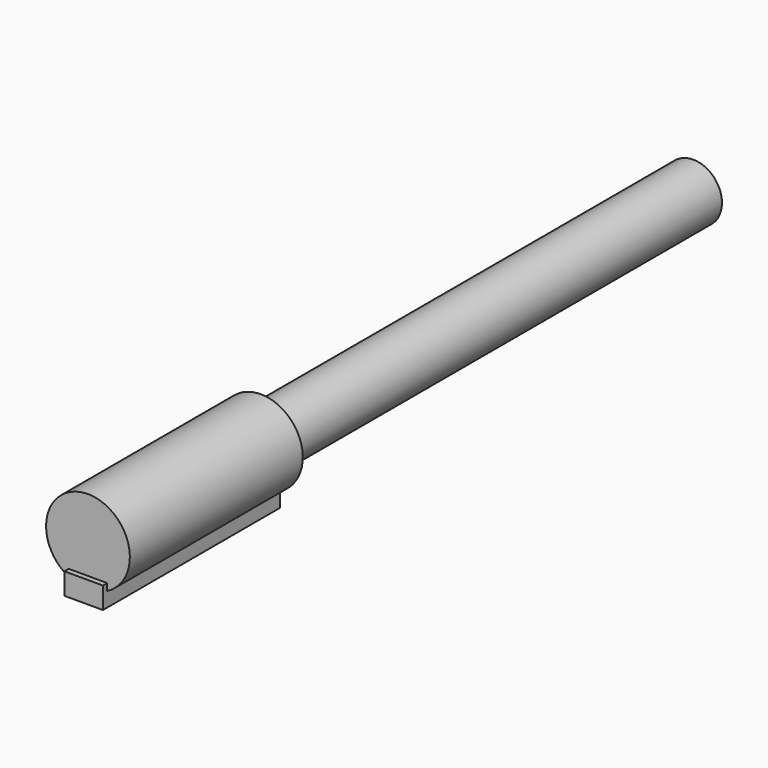
from build123d import *

# Parameters (mm, degrees)
F0_W     = 1.8106922507
F0_H     = 10.411484167
F1_DEPTH = 1.016
F3_DEPTH = 10.16
F4_R     = 1.3504663761
F5_DEPTH = 25.4


with BuildPart() as f1:
    # F0 (on Top) → F1 (new body)
    with BuildSketch(Plane.XY):
        with Locations((-50.0065051019, 23.5388400033)):
            Rectangle(F0_W, F0_H)
    extrude(amount=F1_DEPTH)

    # F2 (on face) → F3 (join)
    with BuildSketch(Plane(origin=(0, 28.7445820868, 0), x_dir=(-1, 0, 0), z_dir=(0, 1, 0))):
        with BuildLine():
            ThreePointArc((50.9118512273, 0.6882785491), (51.6883442883, 1.4132903762), (51.9750051019, 2.4362318218))
            ThreePointArc((51.9750051019, 2.4362318218), (48.9835636563, 4.1180710082), (49.1011589766, 0.6882785491))
            Line((49.1011589766, 0.6882785491), (49.1011589766, 1.016))
            Line((49.1011589766, 1.016), (50.9118512273, 1.016))
            Line((50.9118512273, 1.016), (50.9118512273, 0.6882785491))
        make_face()
    extrude(amount=-F3_DEPTH)

    # F4 (on face) → F5 (join)
    with BuildSketch(Plane(origin=(0, 28.7445820868, 0), x_dir=(-1, 0, 0), z_dir=(0, 1, 0))):
        with Locations((50.0065051019, 2.4362318218)):
            Circle(F4_R)
    extrude(amount=F5_DEPTH)


solid = f1.part
